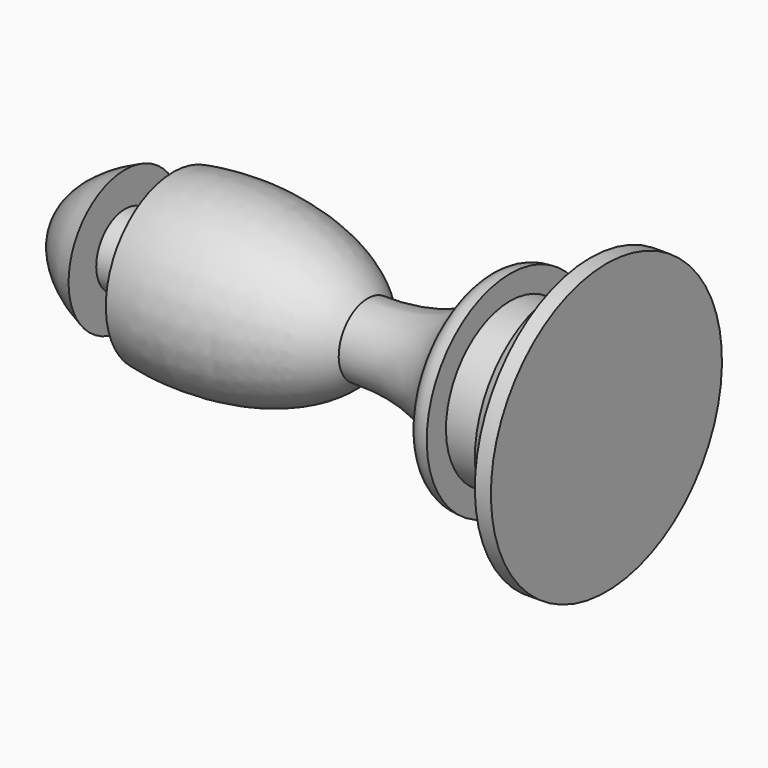
from build123d import *

# Parameters (mm, degrees)
F2_SCALE = 1.7


with BuildPart() as f1:
    # F0 (on Front) → F1 (revolve)
    with BuildSketch(Plane.XZ):
        with BuildLine():
            Line((-7.5, 0), (0, 0))
            Line((0, 0), (0, 9))
            Line((0, 9), (-1, 9))
            add(Edge.make_bspline(
                [(-1, 9), (-1, 7.0851700753), (-1.8672904698, 7.1124176979), (-3, 6.5)],
                knots=[0, 0, 0, 0, 3.2015621187, 3.2015621187, 3.2015621187, 3.2015621187], degree=3))
            Line((-3, 6.5), (-3, 5))
            Line((-3, 5), (-6, 5))
            Line((-6, 5), (-6, 6.5))
            add(Edge.make_bspline(
                [(-6, 6.5), (-7.0111020468, 6.5), (-7.2953770868, 5.9862987623), (-7.5, 5.5)],
                knots=[0, 0, 0, 0, 1.8027756377, 1.8027756377, 1.8027756377, 1.8027756377], degree=3))
            Line((-7.5, 5.5), (-7.5, 0))
        make_face()
        with BuildLine():
            Line((-14, 0), (-7.5, 0))
            Line((-7.5, 0), (-7.5, 5.5))
            add(Edge.make_bspline(
                [(-14.8800330953, 2.2560865689), (-11.7293745279, 2.1962865721), (-8.3865085617, 3.0558807775), (-7.5, 5.5)],
                knots=[0, 0, 0, 0, 8.0615049982, 8.0615049982, 8.0615049982, 8.0615049982], degree=3))
            add(Edge.make_bspline(
                [(-14, 0), (-14, 1.179963637), (-14.8800330953, 2.2560865689)],
                knots=[3.1415926536, 3.1415926536, 3.1415926536, 3.5642633266, 3.5642633266, 3.5642633266], degree=2, weights=[1, 0.9777516787, 1]))
        make_face()
        with BuildLine():
            Line((-24, 0), (-14, 0))
            add(Edge.make_bspline(
                [(-14, 0), (-14, 1.179963637), (-14.8800330953, 2.2560865689)],
                knots=[3.1415926536, 3.1415926536, 3.1415926536, 3.5642633266, 3.5642633266, 3.5642633266], degree=2, weights=[1, 0.9777516787, 1]))
            add(Edge.make_bspline(
                [(-14.8800330953, 2.2560865689), (-16.7203144761, 4.5064212501), (-21, 5.2466656078)],
                knots=[3.5642633266, 3.5642633266, 3.5642633266, 4.4076963264, 4.4076963264, 4.4076963264], degree=2, weights=[1, 0.9123876747, 1]))
            add(Edge.make_bspline(
                [(-21, 5.2466656078), (-22.4646400472, 5.5), (-24, 5.5)],
                knots=[4.4076963264, 4.4076963264, 4.4076963264, 4.7123889804, 4.7123889804, 4.7123889804], degree=2, weights=[1, 0.9884177258, 1]))
            Line((-24, 5.5), (-24, 0))
        make_face()
        with BuildLine():
            Line((-34, 0), (-24, 0))
            Line((-24, 0), (-24, 5.5))
            add(Edge.make_bspline(
                [(-24, 5.5), (-25.5353599528, 5.5), (-27, 5.2466656078)],
                knots=[4.7123889804, 4.7123889804, 4.7123889804, 5.0170816344, 5.0170816344, 5.0170816344], degree=2, weights=[1, 0.9884177258, 1]))
            Line((-27, 5.2466656078), (-27, 2.2466656078))
            Line((-27, 2.2466656078), (-30, 2.2466656078))
            Line((-30, 2.2466656078), (-30, 4.4))
            add(Edge.make_bspline(
                [(-30, 4.4), (-34, 2.75), (-34, 0)],
                knots=[5.3558900892, 5.3558900892, 5.3558900892, 6.2831853072, 6.2831853072, 6.2831853072], degree=2, weights=[1, 0.894427191, 1]))
        make_face()
    revolve(axis=Axis((-17, 0, 0), (-1, 0, 0)))


with BuildPart() as f1_1:
    # F2: moved
    add(f1.part.scale(F2_SCALE))


solid = f1_1.part
